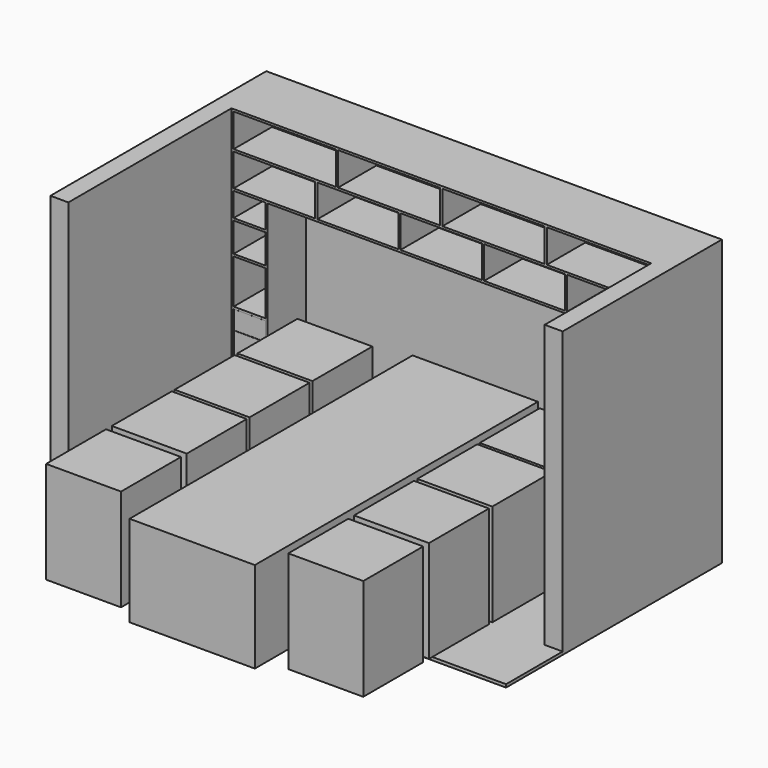
from build123d import *

# Parameters (mm, degrees)
F1_DEPTH  = 2375
F3_DEPTH  = 25
F4_W      = 1045
F4_H      = 2100.1937389374
F4_H_2    = 849.8062610626
F5_DEPTH  = 760
F6_W      = 625
F6_H      = 625
F7_DEPTH  = 850
F8_W      = 18
F8_H      = 1750
F8_H_2    = 18
F8_H_3    = 564
F9_DEPTH  = 400
F11_DEPTH = 400
F12_W     = 18
F12_H     = 276
F13_DEPTH = 400
F14_W     = 18
F14_H     = 270
F15_DEPTH = 400
F16_W     = 265
F16_H     = 18
F17_DEPTH = 380
F18_DEPTH = 20
F19_W     = 265
F19_H     = 18
F20_DEPTH = 400
F21_W     = 265
F21_H     = 155
F21_H_2   = 635
F22_DEPTH = 18
F23_W     = 365
F23_H     = 18
F24_DEPTH = 400
F25_W     = 365
F25_H     = 18
F26_DEPTH = 380


with BuildPart() as f1:
    # F0 (on Top) → F1 (new body)
    with BuildSketch(Plane.XY):
        Polygon((-1750, 0), (-1e-10, 0), (1750.0000000001, 0), (1750, -1510), (1900, -1510), (1900, 150), (-1900, 150), (-1900, -2100), (-1750, -2100), align=None)
    extrude(amount=F1_DEPTH)

    # F2 (on face) → F3 (join)
    with BuildSketch(Plane.XY):
        Polygon((-1900.0992774963, 149.8062610626), (-1900.0992774963, -2100.1937389374), (1899.9007225037, -2100.1937389374), (1899.9007225037, -1510), (1750, -1510), (1750, 0), (2e-10, 0), (-1750, 0), (-1750, -2100), (-1900, -2100), (-1900, 149.8062610626), align=None)
    extrude(amount=F3_DEPTH)

    # F4 (on face) → F5 (join)
    with BuildSketch(Plane.XY.offset(25)):
        with Locations((-37.5, -1050.0968694687)):
            Rectangle(F4_W, F4_H)
        with Locations((-37.5, -2525.0968694687)):
            Rectangle(F4_W, F4_H_2)
    extrude(amount=F5_DEPTH)

    # F6 (on face) → F7, piece 2 (join)
    with BuildSketch(Plane.XY.offset(25)):
        with Locations((-1047.5, -1822.5)):
            Rectangle(F6_W, F6_H)
        with Locations((-1047.5, -1167.5)):
            Rectangle(F6_W, F6_H)
        with Locations((-1047.5, -512.5)):
            Rectangle(F6_W, F6_H)
        with Locations((972.5, -512.5)):
            Rectangle(F6_W, F6_H)
        with Locations((972.5, -1162.5)):
            Rectangle(F6_W, F6_H)
        with Locations((972.5, -1822.5)):
            Rectangle(F6_W, F6_H)
    extrude(amount=F7_DEPTH)

    # F8 (on face) → F9 (join)
    with BuildSketch(Plane.XZ):
        Polygon((-1732, 1793), (-1750, 1793), (-1750, 1775), (-1732, 1775), (-1467, 1775), (-1449, 1775), (1349, 1775), (1367, 1775), (1732, 1775), (1750, 1775), (1750, 1793), (1732, 1793), align=None)
        Polygon((1750, 2375), (-1732, 2375), (-1732, 2357), (1732, 2357), (1750, 2357), align=None)
        with Locations((-1458, 900)):
            Rectangle(F8_W, F8_H)
        with Locations((-1741, 2366)):
            Rectangle(F8_W, F8_H_2)
        with Locations((-1741, 2075)):
            Rectangle(F8_W, F8_H_3)
        with Locations((1358, 900)):
            Rectangle(F8_W, F8_H)
        with Locations((1741, 900)):
            Rectangle(F8_W, F8_H)
        with Locations((1741, 2075)):
            Rectangle(F8_W, F8_H_3)
        with Locations((-1741, 900)):
            Rectangle(F8_W, F8_H)
    extrude(amount=F9_DEPTH)

    # F10 (on face) → F11 (join)
    with BuildSketch(Plane.XZ):
        Polygon((1732, 2063), (1732, 2075), (1732, 2081), (-1732, 2081), (-1732, 2063), align=None)
    extrude(amount=F11_DEPTH)

    # F12 (on face) → F13 (join)
    with BuildSketch(Plane.XZ):
        Polygon((-9, 2081), (0, 2081), (9, 2081), (9, 2357), (-9, 2357), align=None)
        with Locations((-870.5, 2219)):
            Rectangle(F12_W, F12_H)
        with Locations((870.5, 2219)):
            Rectangle(F12_W, F12_H)
    extrude(amount=F13_DEPTH)

    # F14 (on face) → F15 (join)
    with BuildSketch(Plane.XZ):
        with Locations((1041, 1928)):
            Rectangle(F14_W, F14_H)
        with Locations((-1043, 1928)):
            Rectangle(F14_W, F14_H)
        with Locations((-350, 1928)):
            Rectangle(F14_W, F14_H)
        with Locations((348, 1928)):
            Rectangle(F14_W, F14_H)
    extrude(amount=F15_DEPTH)

    # F16 (on face) → F17 (join)
    with BuildSketch(Plane.XZ):
        with Locations((-1599.5, 916)):
            Rectangle(F16_W, F16_H)
        with Locations((-1599.5, 748)):
            Rectangle(F16_W, F16_H)
        with Locations((-1599.5, 426)):
            Rectangle(F16_W, F16_H)
        with Locations((-1599.5, 104)):
            Rectangle(F16_W, F16_H)
    extrude(amount=F17_DEPTH)

    # F18 (add): faces of the model
    f18_faces = [f1.faces().sort_by_distance(p)[0] for p in [
        (-1599.5, -380, 916),
        (-1599.5, -380, 104),
    ]]
    extrude(f18_faces, amount=F18_DEPTH)

    # F19 (on face) → F20 (join)
    with BuildSketch(Plane.XZ):
        with Locations((-1599.5, 1303)):
            Rectangle(F19_W, F19_H)
        with Locations((-1599.5, 1566)):
            Rectangle(F19_W, F19_H)
    extrude(amount=F20_DEPTH)

    # F21 (on face) → F22 (join)
    with BuildSketch(Plane.XZ.offset(380)):
        with Locations((-1599.5, 828)):
            Rectangle(F21_W, F21_H)
        with Locations((-1599.5, 431.5)):
            Rectangle(F21_W, F21_H_2)
    extrude(amount=F22_DEPTH)

    # F23 (on face) → F24 (join)
    with BuildSketch(Plane.XZ):
        with Locations((1549.5, 1566)):
            Rectangle(F23_W, F23_H)
        with Locations((1549.5, 1303)):
            Rectangle(F23_W, F23_H)
        with Locations((1549.5, 104)):
            Rectangle(F23_W, F23_H)
        with Locations((1549.5, 916)):
            Rectangle(F23_W, F23_H)
    extrude(amount=F24_DEPTH)

    # F25 (on face) → F26 (join)
    with BuildSketch(Plane.XZ):
        with Locations((1549.5, 749.5)):
            Rectangle(F25_W, F25_H)
        with Locations((1549.5, 427.5)):
            Rectangle(F25_W, F25_H)
    extrude(amount=F26_DEPTH)


with BuildPart() as f7:
    # F6 (on face) → F7 (new body)
    with BuildSketch(Plane.XY.offset(25)):
        with Locations((-1047.5, -2507.5)):
            Rectangle(F6_W, F6_H)
    extrude(amount=F7_DEPTH)


with BuildPart() as f7b:
    # F6 (on face) → F7, piece 3 (new body)
    with BuildSketch(Plane.XY.offset(25)):
        with Locations((972.5, -2507.5)):
            Rectangle(F6_W, F6_H)
    extrude(amount=F7_DEPTH)


solid = Compound([f1.part, f7.part, f7b.part])
